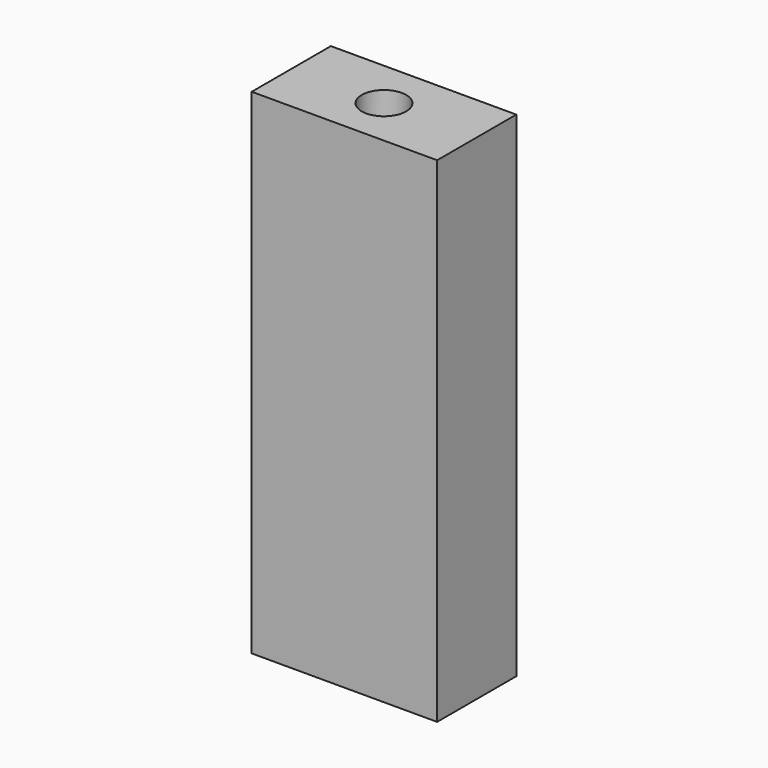
from build123d import *

# Parameters (mm, degrees)
CYLINDER044_R     = 3.3
CYLINDER044_DEPTH = 35
CYLINDER043_R     = 1.8
CYLINDER043_DEPTH = 40
BOX022_W          = 15
BOX022_H          = 8
BOX022_DEPTH      = 40


with BuildPart() as cone001:
    # Cone001 → Cone001 (revolve)
    with BuildSketch(Plane(origin=(7.5, 4, 35), x_dir=(1, 0, 0), z_dir=(0, -1, 0))):
        Polygon((0, 0), (3.3, 0), (1.8, 3), (0, 3), align=None)
    revolve(axis=Axis((7.5, 4, 35), (0, 0, 1)))


with BuildPart() as cylinder009:
    # Cylinder044 → Cylinder044 (new body)
    with BuildSketch(Plane(origin=(7.5, 4, 0), x_dir=(1, 0, 0), z_dir=(0, 0, 1))):
        Circle(CYLINDER044_R)
    extrude(amount=CYLINDER044_DEPTH)


with BuildPart() as fusion016:
    # Cylinder043 → Cylinder043 (new body)
    with BuildSketch(Plane(origin=(7.5, 4, 0), x_dir=(1, 0, 0), z_dir=(0, 0, 1))):
        Circle(CYLINDER043_R)
    extrude(amount=CYLINDER043_DEPTH)

    # Fusion016: union Cone001, Cylinder009
    add(cone001.part)
    add(cylinder009.part)


with BuildPart() as top_stop_trigger_cut:
    # Box022 → Box022 (new body)
    with BuildSketch(Plane.XY):
        with Locations((7.5, 4)):
            Rectangle(BOX022_W, BOX022_H)
    extrude(amount=BOX022_DEPTH)

    # Cut016: cut Fusion016
    add(fusion016.part, mode=Mode.SUBTRACT)


solid = top_stop_trigger_cut.part
